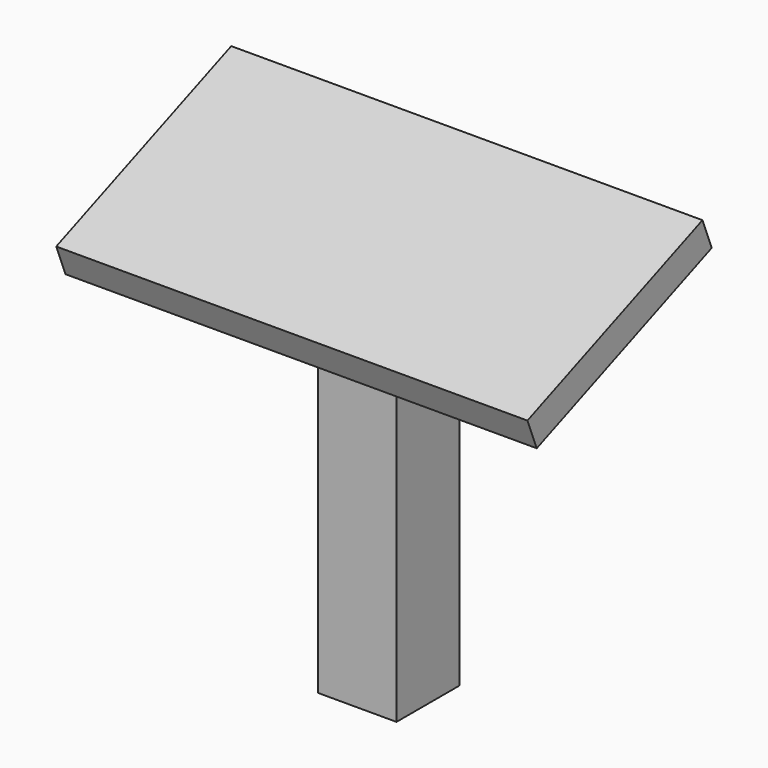
from build123d import *

# Parameters (mm, degrees)
F0_W     = 152.4
F0_H     = 152.4
F1_DEPTH = 762
F3_DEPTH = 152.401
F4_W     = 914.4
F4_H     = 457.2
F5_DEPTH = 60.96


with BuildPart() as f1:
    # F0 (on Top) → F1 (new body)
    with BuildSketch(Plane.XY):
        with Locations((7.154546032, -11.9188567623)):
            Rectangle(F0_W, F0_H)
    extrude(amount=F1_DEPTH)

    # F2 (on face) → F3 (cut, through all)
    with BuildSketch(Plane.YZ.offset(83.354546032)):
        Polygon((64.2811432377, 762), (-88.1188567623, 762), (-88.1188567623, 701.04), align=None)
    extrude(amount=-F3_DEPTH, mode=Mode.SUBTRACT)

    # F4 (on face) → F5 (join)
    with BuildSketch(Plane(origin=(0, -253.8922561052, 634.7306402629), x_dir=(1, 0, 0), z_dir=(0, -0.3713906764, 0.9284766909))):
        with Locations((7.154546032, 260.6133268807)):
            Rectangle(F4_W, F4_H)
    extrude(amount=F5_DEPTH)


solid = f1.part
